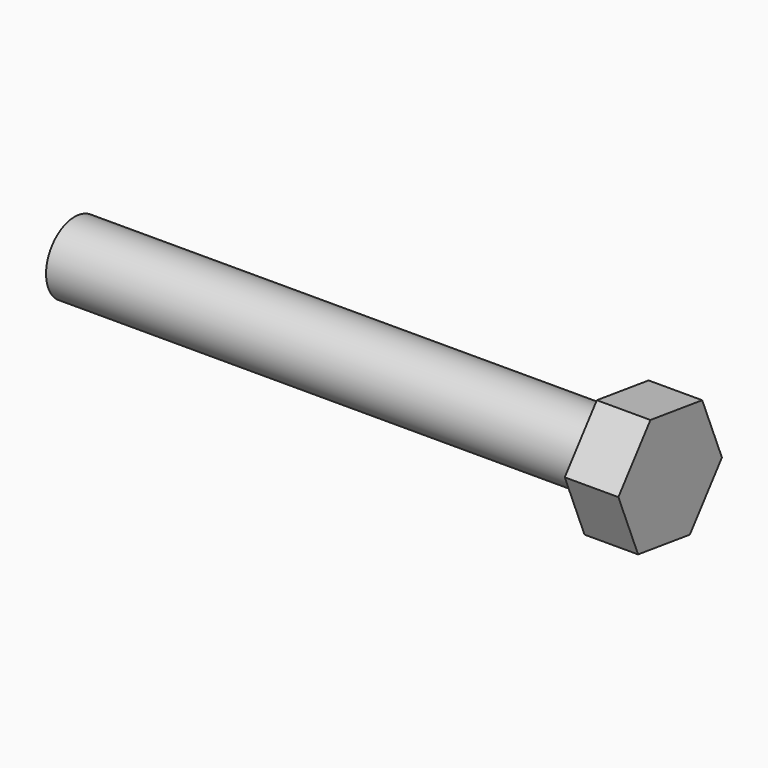
from build123d import *

# Parameters (mm, degrees)
F0_R     = 9
F1_DEPTH = 150
F3_DEPTH = 13.5


with BuildPart() as f1:
    # F0 (on Right) → F1 (new body)
    with BuildSketch(Plane.YZ):
        Circle(F0_R)
    extrude(amount=F1_DEPTH)

    # F2 (on face) → F3 (join)
    with BuildSketch(Plane.YZ.offset(150)):
        Polygon((-16.301647, 2.23748), (-10.088538, -12.9989), (6.213108, -15.23638), (16.301647, -2.23748), (10.088538, 12.9989), (-6.213108, 15.23638), align=None)
    extrude(amount=-F3_DEPTH)


solid = f1.part
